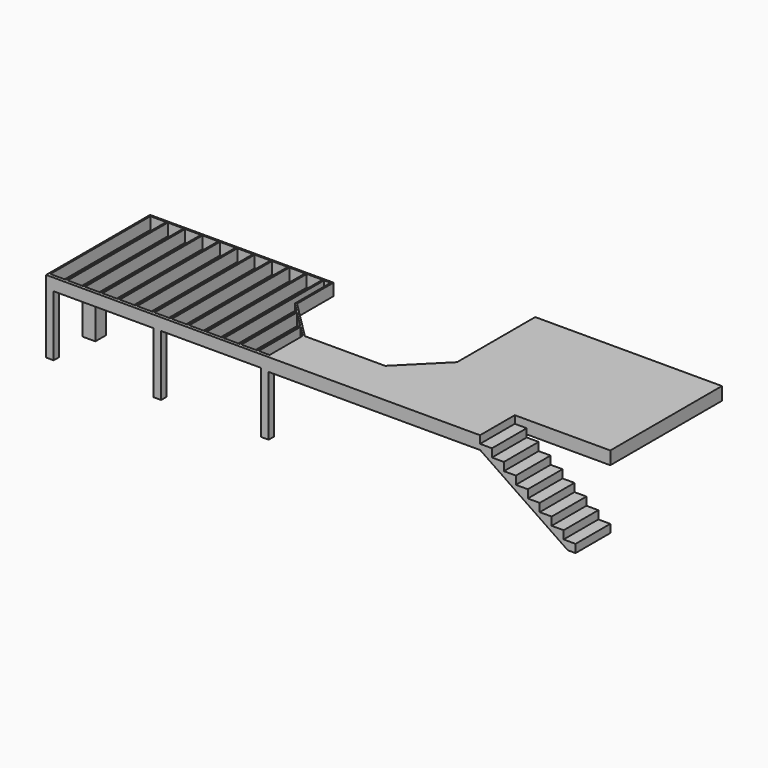
from build123d import *

# Parameters (mm, degrees)
F0_W      = 304.8
F0_H      = 304.8
F1_DEPTH  = 1422.4
F0_W_2    = 177.8
F0_H_2    = 152.4
F3_DEPTH  = 279.4
F4_W      = 5130.8
F4_H      = 38.1
F5_DEPTH  = 279.4
F6_W      = 38.1
F6_H      = 2927.8466365912
F7_DEPTH  = 279.4
F9_DEPTH  = 304.8
F10_W     = 2235.2
F10_H     = 1016
F11_DEPTH = 1701.801
F13_DEPTH = 1016


with BuildPart() as f1:
    # F0 (on Top) → F1 (new body)
    with BuildSketch(Plane.XY):
        with Locations((152.4, -1828.8)):
            Rectangle(F0_W, F0_H)
    extrude(amount=F1_DEPTH)



with BuildPart() as f1b:
    # F0 (on Top) → F1, piece 2 (new body)
    with BuildSketch(Plane.XY):
        with Locations((88.9, -2965.9466365912)):
            Rectangle(F0_W_2, F0_H_2)
    extrude(amount=F1_DEPTH)


with BuildPart() as f1c:
    # F0 (on Top) → F1, piece 3 (new body)
    with BuildSketch(Plane.XY):
        with Locations((2603.5, -2965.9466365912)):
            Rectangle(F0_W_2, F0_H_2)
    extrude(amount=F1_DEPTH)


with BuildPart() as f1d:
    # F0 (on Top) → F1, piece 4 (new body)
    with BuildSketch(Plane.XY):
        with Locations((5118.1, -2965.9466365912)):
            Rectangle(F0_W_2, F0_H_2)
    extrude(amount=F1_DEPTH)


with BuildPart() as f1_1:
    add(f1.part)

    add(f1b.part)  # F3 merges F1b

    add(f1c.part)  # F3 merges F1c

    add(f1d.part)  # F3 merges F1d
    # F2 (on face) → F3 (join)
    with BuildSketch(Plane.XY.offset(1422.4)):
        Polygon((4292.6, 0), (0, 0), (0, -3042.1466365912), (5207, -3042.1466365912), (5207, -1981.2), (4292.6, -1066.8), align=None)
        Polygon((38.1, -38.1), (4254.5, -38.1), (4254.5, -1082.5815367264), (5168.9, -1996.9815367264), (5168.9, -3004.0466365912), (38.1, -3004.0466365912), align=None, mode=Mode.SUBTRACT)
    extrude(amount=F3_DEPTH)

    # F4 (on face) → F5 (join, through all)
    with BuildSketch(Plane.XY.offset(1422.4)):
        with Locations((2603.5, -2984.9966365912)):
            Rectangle(F4_W, F4_H)
    extrude(amount=F5_DEPTH)

    # F6 (on face) → F7 (join, through all)
    with BuildSketch(Plane.XY.offset(1422.4)):
        with Locations((425.45, -1502.0233182956)):
            Rectangle(F6_W, F6_H)
        with Locations((831.85, -1502.0233182956)):
            Rectangle(F6_W, F6_H)
        with Locations((1238.25, -1502.0233182956)):
            Rectangle(F6_W, F6_H)
        with Locations((1644.65, -1502.0233182956)):
            Rectangle(F6_W, F6_H)
        with Locations((2051.05, -1502.0233182956)):
            Rectangle(F6_W, F6_H)
        with Locations((2457.45, -1502.0233182956)):
            Rectangle(F6_W, F6_H)
        with Locations((2863.85, -1502.0233182956)):
            Rectangle(F6_W, F6_H)
        with Locations((3270.25, -1502.0233182956)):
            Rectangle(F6_W, F6_H)
        with Locations((3676.65, -1502.0233182956)):
            Rectangle(F6_W, F6_H)
        with Locations((4083.05, -1502.0233182956)):
            Rectangle(F6_W, F6_H)
        Polygon((4470.4, -1298.4815367264), (4470.4, -2965.9466365912), (4508.5, -2965.9466365912), (4508.5, -1336.5815367264), align=None)
        Polygon((4876.8, -1704.8815367264), (4876.8, -2965.9466365912), (4914.9, -2965.9466365912), (4914.9, -1742.9815367264), align=None)
    extrude(amount=F7_DEPTH)

    # F8 (on face) → F9 (join)
    with BuildSketch(Plane.XY.offset(1701.8)):
        Polygon((7086.6, -1981.2), (5207, -1981.2), (5207, -3042.1466365912), (12389.3466365912, -3042.1466365912), (12389.3466365912, 1238.7466365912), (8020.5466365912, 1238.7466365912), (8020.5466365912, -1047.2533634088), align=None)
    extrude(amount=-F9_DEPTH)

    # F10 (on face) → F11 (cut, through all)
    with BuildSketch(Plane.XY.offset(1701.8)):
        with Locations((11271.7466365912, -2534.1466365912)):
            Rectangle(F10_W, F10_H)
    extrude(amount=-F11_DEPTH, mode=Mode.SUBTRACT)

    # F12 (on face) → F13 (join, through all)
    with BuildSketch(Plane.XZ.offset(3042.1466365912)):
        Polygon((10154.1466365912, 1524), (10154.1466365912, 1701.8), (9710.4358673096, 1701.8), (12206.4092006429, 0), (12389.3466365912, 0), (12389.3466365912, 190.5), (12109.9466365912, 190.5), (12109.9466365912, 381), (11830.5466365912, 381), (11830.5466365912, 571.5), (11551.1466365912, 571.5), (11551.1466365912, 762), (11271.7466365912, 762), (11271.7466365912, 952.5), (10992.3466365912, 952.5), (10992.3466365912, 1143), (10712.9466365912, 1143), (10712.9466365912, 1333.5), (10433.5466365912, 1333.5), (10433.5466365912, 1524), align=None)
    extrude(amount=-F13_DEPTH)


solid = f1_1.part
